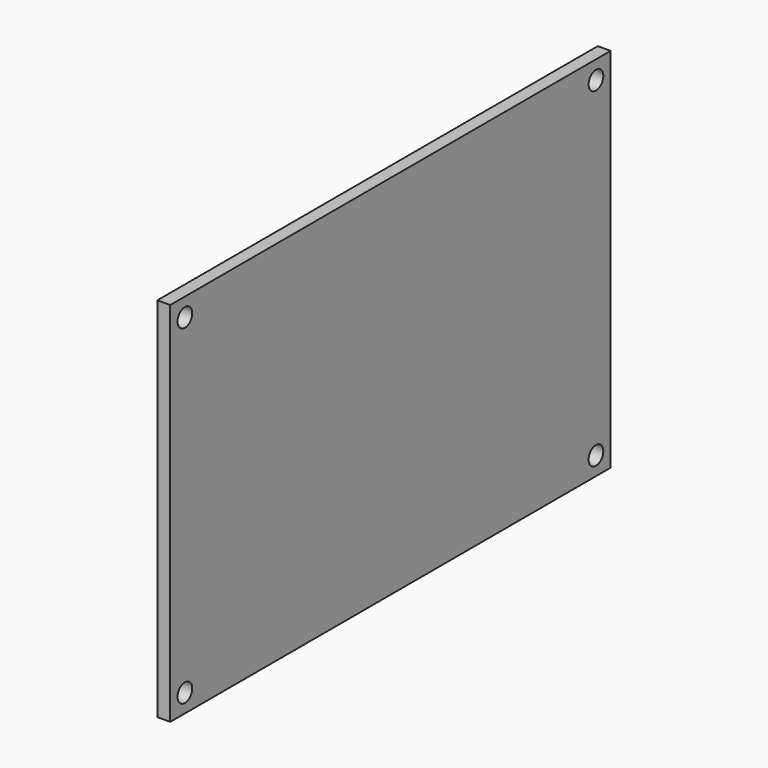
from build123d import *

# Parameters (mm, degrees)
SKETCH_R      = 1
EXTRUDE_DEPTH = 1.4
BOX001_W      = 1.4
BOX001_H      = 60
BOX001_DEPTH  = 40


with BuildPart() as extrude_body:
    # Sketch (on Face2 of Box001) → Extrude (new body)
    with BuildSketch(Plane.YZ.offset(1.4)):
        with Locations((2, 38)):
            Circle(SKETCH_R)
        with Locations((58, 38)):
            Circle(SKETCH_R)
        with Locations((58, 2)):
            Circle(SKETCH_R)
        with Locations((2, 2)):
            Circle(SKETCH_R)
    extrude(amount=-EXTRUDE_DEPTH)


with BuildPart() as board002:
    # Box001 → Box001 (new body)
    with BuildSketch(Plane.XY):
        with Locations((0.7, 30)):
            Rectangle(BOX001_W, BOX001_H)
    extrude(amount=BOX001_DEPTH)

    # Cut: cut Extrude body
    add(extrude_body.part, mode=Mode.SUBTRACT)


with BuildPart() as board002_1:
    # Cut placement: moved
    add(board002.part.moved(Location((18.5, -18, -2))))


solid = board002_1.part
